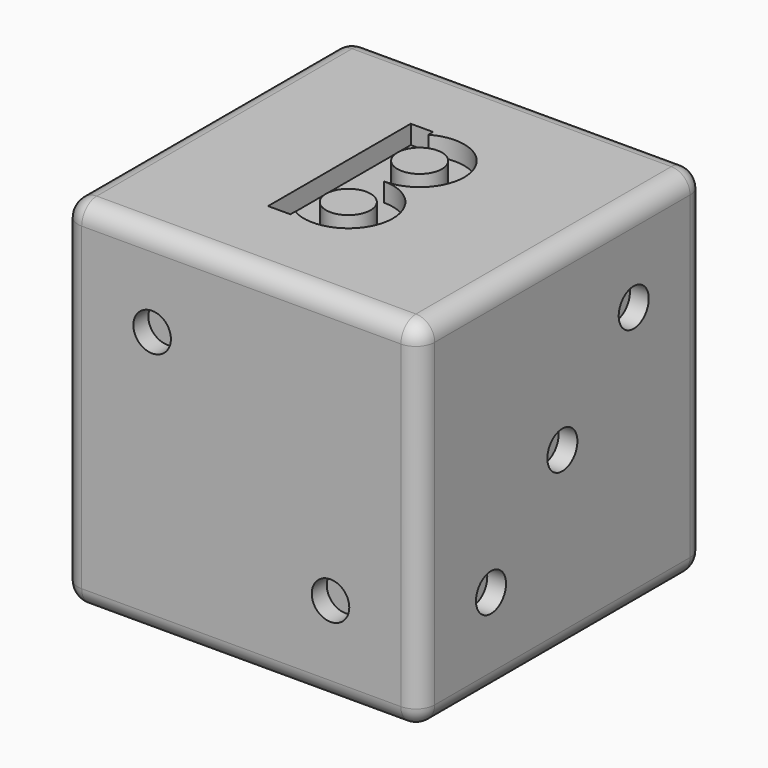
from build123d import *

# Parameters (mm, degrees)
F0_W      = 19
F0_H      = 19
F1_DEPTH  = 19
F3_DEPTH  = 1
F4_R      = 1
F5_DEPTH  = 1
F6_R      = 1
F7_DEPTH  = 1
F8_R      = 1
F9_DEPTH  = 1
F10_R     = 1
F11_DEPTH = 1
F12_R     = 1
F13_DEPTH = 1
F14_R     = 1


with BuildPart() as f1:
    # F0 (on Top) → F1 (new body)
    with BuildSketch(Plane.XY):
        with Locations((-9.5, 9.5)):
            Rectangle(F0_W, F0_H)
    extrude(amount=F1_DEPTH)

    # F2 (on face) → F3 (cut)
    with BuildSketch(Plane.XY.offset(19)):
        with BuildLine():
            ThreePointArc((-10.6875, 9.818189666), (-11.556810334, 10.6875), (-11.875, 11.875))
            Line((-11.875, 11.875), (-11.875, 7.125))
            ThreePointArc((-11.875, 7.125), (-11.556810334, 8.3125), (-10.6875, 9.181810334))
            Line((-10.6875, 9.181810334), (-10.6875, 9.818189666))
        make_face()
        with BuildLine():
            ThreePointArc((-10.6875, 13.931810334), (-11.556810334, 13.0625), (-11.875, 11.875))
            ThreePointArc((-11.875, 11.875), (-11.556810334, 10.6875), (-10.6875, 9.818189666))
            Line((-10.6875, 9.818189666), (-10.6875, 11.875))
            Line((-10.6875, 11.875), (-10.6875, 13.931810334))
        make_face()
        with BuildLine():
            ThreePointArc((-7.125, 11.875), (-8.3125, 13.931810334), (-10.6875, 13.931810334))
            Line((-10.6875, 13.931810334), (-10.6875, 11.875))
            Line((-10.6875, 11.875), (-10.6875, 9.818189666))
            ThreePointArc((-10.6875, 9.818189666), (-10.1146952321, 9.5809261626), (-9.5, 9.5))
            ThreePointArc((-9.5, 9.5), (-7.8206213947, 10.1956213947), (-7.125, 11.875))
        make_face()
        with BuildLine():
            ThreePointArc((-8.3125, 11.875), (-9.5, 10.6875), (-10.6875, 11.875))
            ThreePointArc((-10.6875, 11.875), (-9.5, 13.0625), (-8.3125, 11.875))
        make_face(mode=Mode.SUBTRACT)
        with BuildLine():
            ThreePointArc((-9.5, 9.5), (-10.1146952321, 9.4190738374), (-10.6875, 9.181810334))
            Line((-10.6875, 9.181810334), (-10.6875, 7.125))
            Line((-10.6875, 7.125), (-10.6875, 5.068189666))
            ThreePointArc((-10.6875, 5.068189666), (-8.3125, 5.068189666), (-7.125, 7.125))
            ThreePointArc((-7.125, 7.125), (-7.8206213947, 8.8043786053), (-9.5, 9.5))
        make_face()
        with BuildLine():
            ThreePointArc((-8.3125, 7.125), (-9.5, 5.9375), (-10.6875, 7.125))
            ThreePointArc((-10.6875, 7.125), (-9.5, 8.3125), (-8.3125, 7.125))
        make_face(mode=Mode.SUBTRACT)
        with BuildLine():
            ThreePointArc((-10.6875, 9.181810334), (-11.556810334, 8.3125), (-11.875, 7.125))
            ThreePointArc((-11.875, 7.125), (-11.556810334, 5.9375), (-10.6875, 5.068189666))
            Line((-10.6875, 5.068189666), (-10.6875, 7.125))
            Line((-10.6875, 7.125), (-10.6875, 9.181810334))
        make_face()
        with BuildLine():
            ThreePointArc((-9.5, 9.5), (-10.1146952321, 9.5809261626), (-10.6875, 9.818189666))
            Line((-10.6875, 9.818189666), (-10.6875, 9.181810334))
            ThreePointArc((-10.6875, 9.181810334), (-10.1146952321, 9.4190738374), (-9.5, 9.5))
        make_face()
        with BuildLine():
            ThreePointArc((-10.6875, 5.068189666), (-11.556810334, 5.9375), (-11.875, 7.125))
            Line((-11.875, 7.125), (-11.875, 4.75))
            Line((-11.875, 4.75), (-10.6875, 4.75))
            Line((-10.6875, 4.75), (-10.6875, 5.068189666))
        make_face()
        with BuildLine():
            Line((-10.6875, 14.25), (-11.875, 14.25))
            Line((-11.875, 14.25), (-11.875, 11.875))
            ThreePointArc((-11.875, 11.875), (-11.556810334, 13.0625), (-10.6875, 13.931810334))
            Line((-10.6875, 13.931810334), (-10.6875, 14.25))
        make_face()
    extrude(amount=-F3_DEPTH, mode=Mode.SUBTRACT)

    # F4 (on face) → F5 (cut)
    with BuildSketch(Plane.XZ):
        with Locations((-14.25, 14.25)):
            Circle(F4_R)
        with Locations((-4.75, 4.75)):
            Circle(F4_R)
    extrude(amount=-F5_DEPTH, mode=Mode.SUBTRACT)

    # F6 (on face) → F7 (cut)
    with BuildSketch(Plane(origin=(0, 0, 0), x_dir=(1, 0, 0), z_dir=(0, 0, -1))):
        with Locations((-14.25, -4.75)):
            Circle(F6_R)
        with Locations((-9.5, -9.5)):
            Circle(F6_R)
        with Locations((-4.75, -4.75)):
            Circle(F6_R)
        with Locations((-4.75, -14.25)):
            Circle(F6_R)
        with Locations((-14.25, -14.25)):
            Circle(F6_R)
    extrude(amount=-F7_DEPTH, mode=Mode.SUBTRACT)

    # F8 (on face) → F9 (cut)
    with BuildSketch(Plane(origin=(0, 19, 0), x_dir=(-1, 0, 0), z_dir=(0, 1, 0))):
        with Locations((4.75, 14.25)):
            Circle(F8_R)
        with Locations((4.75, 9.5)):
            Circle(F8_R)
        with Locations((4.75, 4.75)):
            Circle(F8_R)
        with Locations((14.25, 4.75)):
            Circle(F8_R)
        with Locations((14.25, 9.5)):
            Circle(F8_R)
        with Locations((14.25, 14.25)):
            Circle(F8_R)
    extrude(amount=-F9_DEPTH, mode=Mode.SUBTRACT)

    # F10 (on face) → F11 (cut)
    with BuildSketch(Plane.YZ):
        with Locations((4.75, 4.75)):
            Circle(F10_R)
        with Locations((9.5, 9.5)):
            Circle(F10_R)
        with Locations((14.25, 14.25)):
            Circle(F10_R)
    extrude(amount=-F11_DEPTH, mode=Mode.SUBTRACT)

    # F12 (on face) → F13 (cut)
    with BuildSketch(Plane(origin=(-19, 0, 0), x_dir=(0, -1, 0), z_dir=(-1, 0, 0))):
        with Locations((-14.25, 14.25)):
            Circle(F12_R)
        with Locations((-4.75, 14.25)):
            Circle(F12_R)
        with Locations((-14.25, 4.75)):
            Circle(F12_R)
        with Locations((-4.75, 4.75)):
            Circle(F12_R)
    extrude(amount=-F13_DEPTH, mode=Mode.SUBTRACT)

    # F14
    f14_edges = [f1.edges().sort_by_distance(p)[0] for p in [
        (0, 9.5, 19),
        (-9.5, 19, 19),
        (-9.5, 0, 19),
        (-19, 9.5, 19),
        (-19, 0, 9.5),
        (-19, 19, 9.5),
        (0, 19, 9.5),
        (0, 0, 9.5),
        (-9.5, 0, 0),
        (-9.5, 19, 0),
        (-19, 9.5, 0),
        (0, 9.5, 0),
    ]]
    fillet(f14_edges, radius=F14_R)


solid = f1.part
